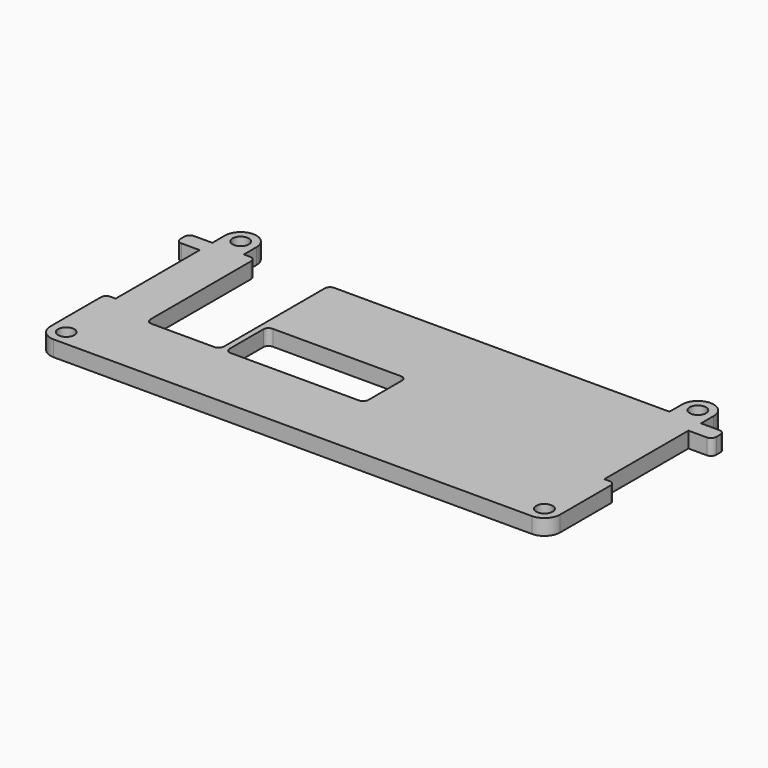
from build123d import *

# Parameters (mm, degrees)
PAD_DEPTH       = 3
PAD001_DEPTH    = 3
FILLET_R        = 3
FILLET001_R     = 1
FILLET002_R     = 1
SKETCH003_W     = 1.5
SKETCH003_H     = 14
SKETCH003_H_2   = 4
SKETCH003_W_2   = 40.5
SKETCH003_H_3   = 1.5
PAD002_DEPTH    = 1
SKETCH004_R     = 1.55
POCKET_DEPTH    = 3.001
SKETCH005_W     = 14
SKETCH005_H     = 26
SKETCH005_W_2   = 26.4
SKETCH005_H_2   = 10
POCKET001_DEPTH = 3.001
FILLET003_R     = 1


with BuildPart() as part:
    # Sketch → Pad (new body)
    with BuildSketch(Plane.XY):
        Polygon((0, 3), (51, 3), (51, 0), (46.5, 0), (46.5, -20), (48.5, -20), (48.5, -36), (0, -36), align=None)
    extrude(amount=PAD_DEPTH)

    # Sketch001 (on Face10 of Pad) → Pad001 (join)
    with BuildSketch(Plane.XY.offset(3)):
        with BuildLine():
            Line((46.5, 6), (46.5, 3))
            Line((46.5, 3), (40.5, 3))
            Line((40.5, 3), (40.5, 6))
            ThreePointArc((46.5, 6), (43.5, 9), (40.5, 6))
        make_face()
    extrude(amount=-PAD001_DEPTH)

    # Fillet
    fillet_edges = [part.edges().sort_by_distance(p)[0] for p in [
        (48.5, -36, 1.5),
    ]]
    fillet(fillet_edges, radius=FILLET_R)

    # Fillet001
    fillet001_edges = [part.edges().sort_by_distance(p)[0] for p in [
        (48.5, -20, 1.5),
    ]]
    fillet(fillet001_edges, radius=FILLET001_R)

    # Fillet002
    fillet002_edges = [part.edges().sort_by_distance(p)[0] for p in [
        (51, 3, 1.5),
        (51, 0, 1.5),
    ]]
    fillet(fillet002_edges, radius=FILLET002_R)

    # Sketch003 → Pad002 (join)
    with BuildSketch(Plane(origin=(0, 0, 0), x_dir=(1, 0, 0), z_dir=(0, 0, -1))):
        with Locations((42.55, 9)):
            Rectangle(SKETCH003_W, SKETCH003_H)
        with Locations((44.55, 26)):
            Rectangle(SKETCH003_W, SKETCH003_H_2)
        with Locations((20.25, 32.05)):
            Rectangle(SKETCH003_W_2, SKETCH003_H_3)
    extrude(amount=PAD002_DEPTH)

    # Sketch004 (on Face1 of Pad002) → Pocket (cut, through all)
    with BuildSketch(Plane(origin=(0, 0, 0), x_dir=(1, 0, 0), z_dir=(0, 0, -1))):
        with Locations((45.5, 33)):
            Circle(SKETCH004_R)
        with Locations((43.5, -6)):
            Circle(SKETCH004_R)
    extrude(amount=-POCKET_DEPTH, mode=Mode.SUBTRACT)

    # Mirrored: part across YZ


with BuildPart() as part_1:
    add(part.part)
    add(part.part.mirror(Plane.YZ))

    # Sketch005 (on Face14 of Mirrored) → Pocket001 (cut, through all)
    with BuildSketch(Plane(origin=(0, 0, 0), x_dir=(1, 0, 0), z_dir=(0, 0, -1))):
        with Locations((-31.3, 10)):
            Rectangle(SKETCH005_W, SKETCH005_H)
        with Locations((-10, 18)):
            Rectangle(SKETCH005_W_2, SKETCH005_H_2)
    extrude(amount=-POCKET001_DEPTH, mode=Mode.SUBTRACT)

    # Fillet003
    fillet003_edges = [part_1.edges().sort_by_distance(p)[0] for p in [
        (-24.3, 3, 1.5),
        (-38.3, 3, 1.5),
        (-38.3, -23, 1.5),
        (-23.2, -23, 1.5),
        (-23.2, -13, 1.5),
        (3.2, -13, 1.5),
        (3.2, -23, 1.5),
        (-24.3, -23, 1.5),
    ]]
    fillet(fillet003_edges, radius=FILLET003_R)


solid = part_1.part
